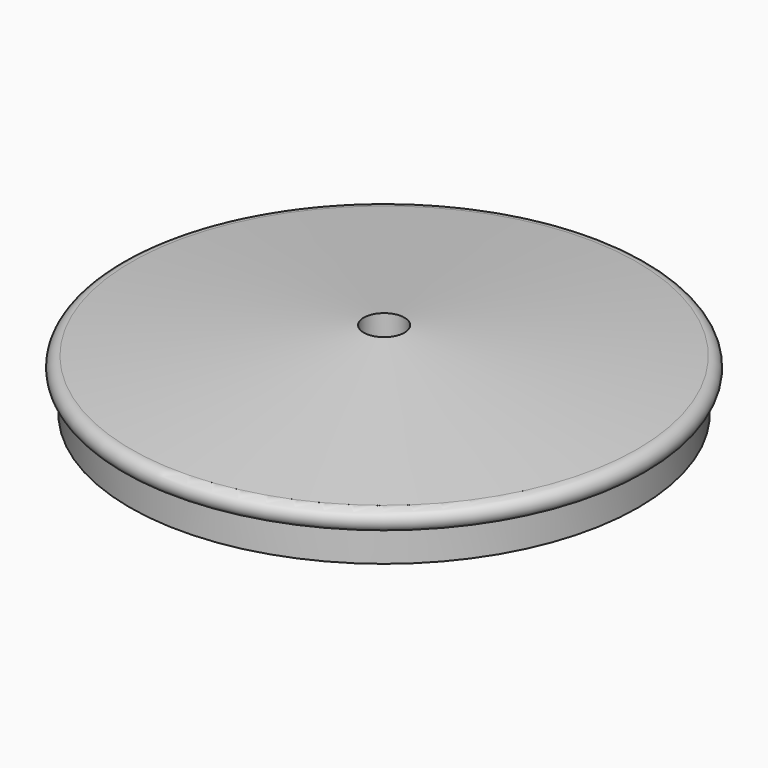
from build123d import *


with BuildPart() as f1:
    # F0 (on Front) → F1 (revolve)
    with BuildSketch(Plane.XZ):
        with BuildLine():
            Line((0, 13.057456), (0, 7.62))
            Line((0, 7.62), (58.410507, 7.62))
            ThreePointArc((58.410507, 7.62), (60.601873, 4.116903), (60.955254, 0))
            Line((60.955254, 0), (63.5, 0))
            Line((63.5, 0), (63.5, 7.62))
            ThreePointArc((63.5, 7.62), (65.888165, 10.311835), (63.19633, 12.7))
            Line((63.19633, 12.7), (5.08, 19.407456))
            Line((5.08, 19.407456), (5.08, 13.057456))
            Line((5.08, 13.057456), (0, 13.057456))
        make_face()
    revolve(axis=Axis((0, 0, 10.338728), (0, 0, -1)))


solid = f1.part
